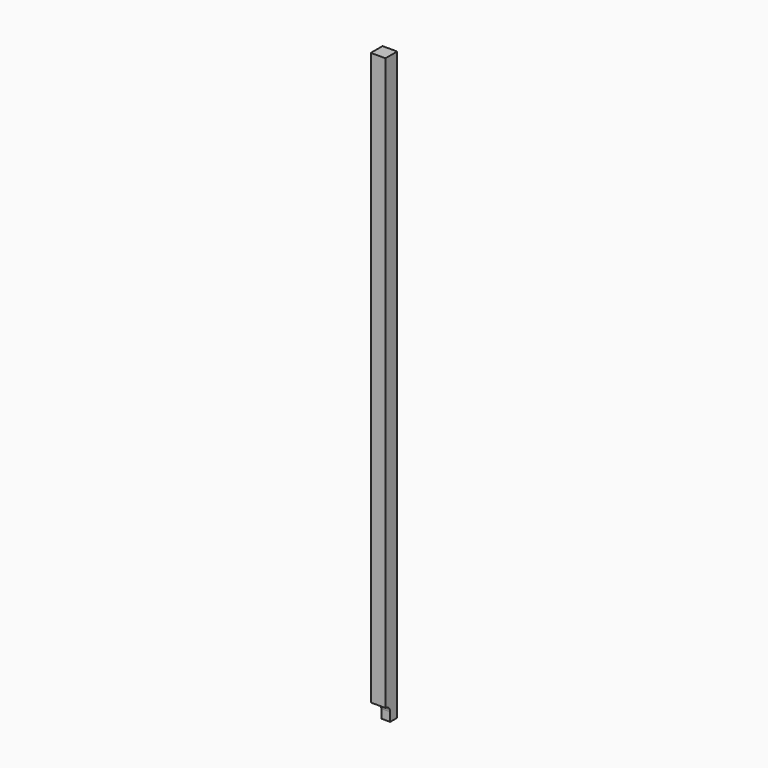
from build123d import *

# Parameters (mm, degrees)
F0_W     = 50
F0_H     = 50
F1_DEPTH = 2000
F3_DEPTH = 50.001
F5_DEPTH = 50.001


with BuildPart() as f1:
    # F0 (on Top) → F1 (new body)
    with BuildSketch(Plane.XY):
        with Locations((25, 25)):
            Rectangle(F0_W, F0_H)
    extrude(amount=F1_DEPTH)

    # F2 (on Front) → F3 (cut, through all)
    with BuildSketch(Plane.XZ):
        with BuildLine():
            Line((0, 50), (0, 0))
            Line((0, 0), (20, 0))
            Line((20, 0), (20, 30))
            ThreePointArc((20, 30), (14.142136, 44.142136), (0, 50))
        make_face()
    extrude(amount=-F3_DEPTH, mode=Mode.SUBTRACT)

    # F4 (on Right) → F5 (cut, through all)
    with BuildSketch(Plane.YZ):
        with BuildLine():
            Line((0, 50), (0, 0))
            Line((0, 0), (20, 0))
            Line((20, 0), (20, 30))
            ThreePointArc((20, 30), (14.142136, 44.142136), (0, 50))
        make_face()
    extrude(amount=F5_DEPTH, mode=Mode.SUBTRACT)


solid = f1.part
